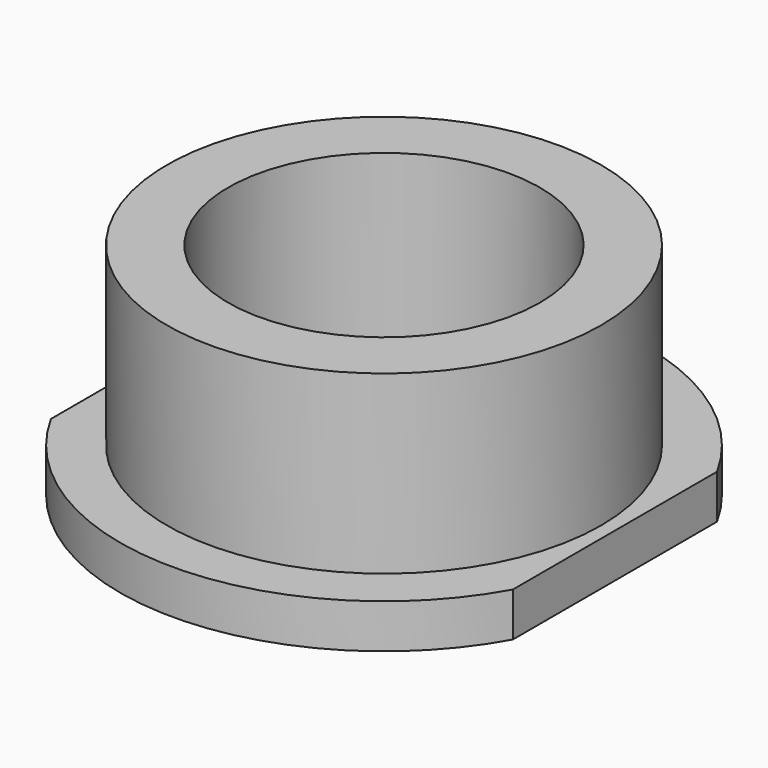
from build123d import *

# Parameters (mm, degrees)
F0_R     = 19.715
F0_R_2   = 18.38
F1_DEPTH = 4
F0_R_3   = 14.16
F2_DEPTH = 20


with BuildPart() as f1:
    # F0 (on Top) → F1 (new body)
    with BuildSketch(Plane.XY):
        with BuildLine():
            Line((20.97, -11.5905435593), (20.97, 11.5905435593))
            ThreePointArc((20.97, 11.5905435593), (0, 23.96), (-20.97, 11.5905435593))
            Line((-20.97, 11.5905435593), (-20.97, -11.5905435593))
            ThreePointArc((-20.97, -11.5905435593), (0, -23.96), (20.97, -11.5905435593))
        make_face()
        Circle(F0_R, mode=Mode.SUBTRACT)
        Circle(F0_R)
        Circle(F0_R_2, mode=Mode.SUBTRACT)
    extrude(amount=F1_DEPTH)

    # F0 (on Top) → F2 (join)
    with BuildSketch(Plane.XY):
        Circle(F0_R)
        Circle(F0_R_2, mode=Mode.SUBTRACT)
        Circle(F0_R_2)
        Circle(F0_R_3, mode=Mode.SUBTRACT)
    extrude(amount=F2_DEPTH)


solid = f1.part
